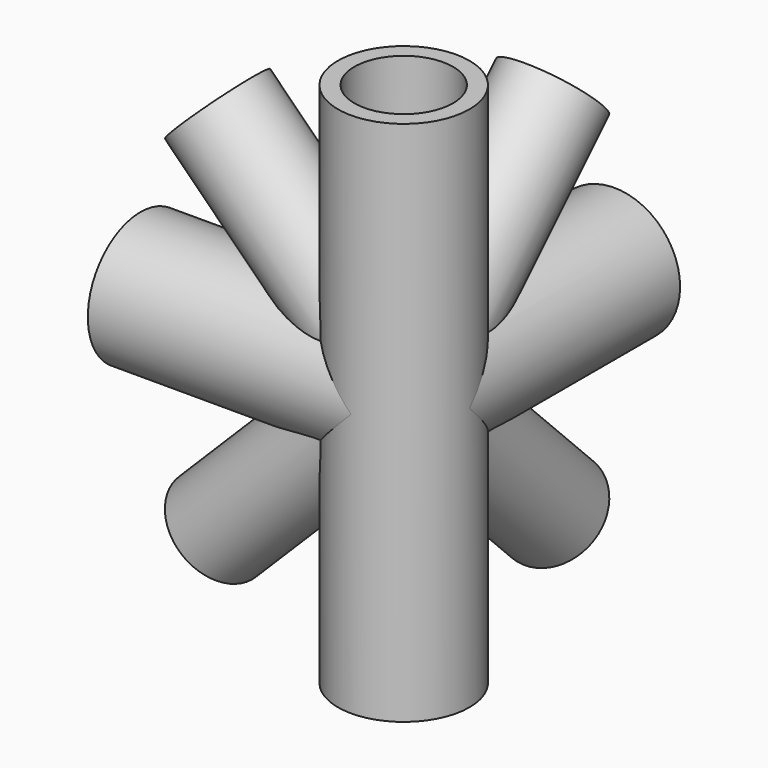
from build123d import *

# Parameters (mm, degrees)
F0_R      = 6.35
F1_DEPTH  = 25.4
F2_R      = 6.35
F3_DEPTH  = 25.4
F4_R      = 6.35
F5_DEPTH  = 25.4
F11_R     = 4.7625
F12_DEPTH = 25.4
F13_R     = 4.7625
F14_DEPTH = 25.4
F15_R     = 4.7625
F16_DEPTH = 25.4
F17_R     = 4.7625
F18_DEPTH = 25.4
F19_R     = 4.7625
F20_DEPTH = 50.8010001
F21_R     = 4.7625
F22_DEPTH = 25.4010001
F23_R     = 4.7625
F24_DEPTH = 25.4010001
F25_R     = 3.175
F26_DEPTH = 20.3808843151
F27_R     = 3.175
F28_DEPTH = 20.3808843145
F29_R     = 3.175
F30_DEPTH = 20.3808843151
F31_R     = 3.175
F32_DEPTH = 20.3808843145


with BuildPart() as f1:
    # F0 (on Top) → F1 (new body, symmetric)
    with BuildSketch(Plane.XY):
        Circle(F0_R)
    extrude(amount=F1_DEPTH, both=True)

    # F2 (on Right) → F3 (join)
    with BuildSketch(Plane.YZ):
        Circle(F2_R)
    extrude(amount=-F3_DEPTH)

    # F4 (on Front) → F5 (join)
    with BuildSketch(Plane.XZ):
        Circle(F4_R)
    extrude(amount=-F5_DEPTH)

    # F11 (on line) → F12 (join)
    with BuildSketch(Plane(origin=(0, 0, 0), x_dir=(1, 0, 0), z_dir=(0, -0.7071067812, 0.7071067812))):
        Circle(F11_R)
    extrude(amount=-F12_DEPTH)

    # F13 (on line) → F14 (join)
    with BuildSketch(Plane(origin=(0, 0, 0), x_dir=(1, 0, 0), z_dir=(0, 0.7071067812, 0.7071067812))):
        Circle(F13_R)
    extrude(amount=F14_DEPTH)

    # F15 (on line) → F16 (join)
    with BuildSketch(Plane(origin=(0, 0, 0), x_dir=(0.7071067812, 0, -0.7071067812), z_dir=(0.7071067812, 0, 0.7071067812))):
        Circle(F15_R)
    extrude(amount=-F16_DEPTH)

    # F17 (on line) → F18 (join)
    with BuildSketch(Plane(origin=(0, 0, 0), x_dir=(0, 1, 0), z_dir=(0.7071067812, 0, -0.7071067812))):
        Circle(F17_R)
    extrude(amount=-F18_DEPTH)

    # F19 (on face) → F20 (cut, through all)
    with BuildSketch(Plane.XY.offset(25.4)):
        Circle(F19_R)
    extrude(amount=-F20_DEPTH, mode=Mode.SUBTRACT)

    # F21 (on Front) → F22 (cut, through all)
    with BuildSketch(Plane.XZ):
        Circle(F21_R)
    extrude(amount=-F22_DEPTH, mode=Mode.SUBTRACT)

    # F23 (on Right) → F24 (cut, through all)
    with BuildSketch(Plane.YZ):
        Circle(F23_R)
    extrude(amount=-F24_DEPTH, mode=Mode.SUBTRACT)

    # F25 (on face) → F26 (cut, through all)
    with BuildSketch(Plane(origin=(-17.9605122421, 0, 17.9605122421), x_dir=(0, -1, 0), z_dir=(-0.7071067812, 0, 0.7071067812))):
        Circle(F25_R)
    extrude(amount=-F26_DEPTH, mode=Mode.SUBTRACT)

    # F27 (on face) → F28 (cut, through all)
    with BuildSketch(Plane(origin=(0, 17.9605122421, 17.9605122421), x_dir=(1, 0, 0), z_dir=(0, 0.7071067812, 0.7071067812))):
        Circle(F27_R)
    extrude(amount=-F28_DEPTH, mode=Mode.SUBTRACT)

    # F29 (on face) → F30 (cut, through all)
    with BuildSketch(Plane(origin=(-17.9605122421, 0, -17.9605122421), x_dir=(0.7071067812, 0, -0.7071067812), z_dir=(-0.7071067812, 0, -0.7071067812))):
        Circle(F29_R)
    extrude(amount=-F30_DEPTH, mode=Mode.SUBTRACT)

    # F31 (on face) → F32 (cut, through all)
    with BuildSketch(Plane(origin=(0, 17.9605122421, -17.9605122421), x_dir=(-1, 0, 0), z_dir=(0, 0.7071067812, -0.7071067812))):
        Circle(F31_R)
    extrude(amount=-F32_DEPTH, mode=Mode.SUBTRACT)


solid = f1.part
